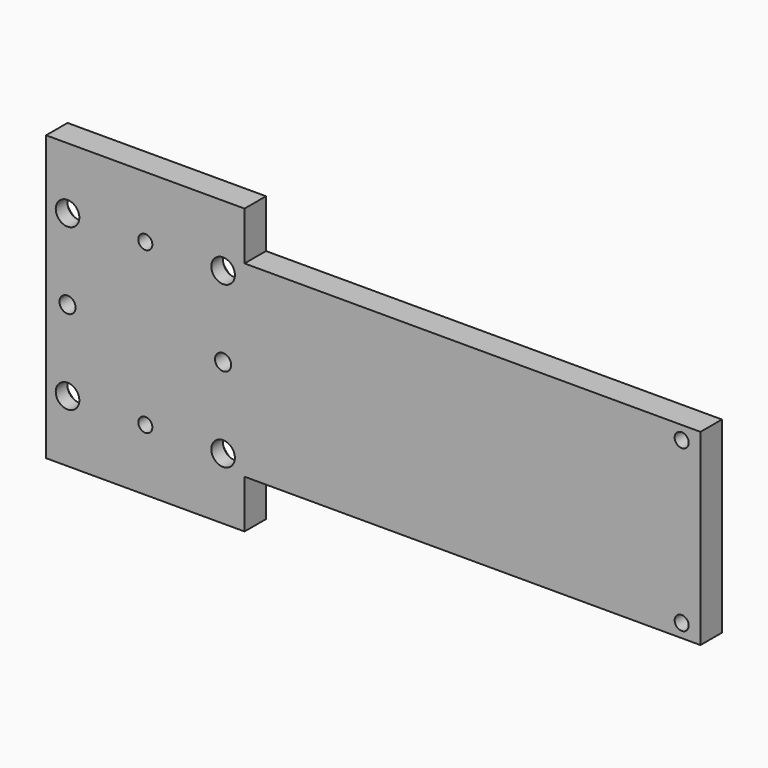
from build123d import *

# Parameters (mm, degrees)
F0_W           = 170
F0_H           = 35
F1_DEPTH       = 10
F2_D           = 6
F2_DEPTH       = 40
F2_TIP         = 1.8025818571
F3_D           = 8.8
F3_DEPTH       = 40
F3_CSINK_D     = 17.92
F3_CSINK_ANGLE = 90
F3_TIP         = 2.6437867237
F5_D           = 5.25
F5_DEPTH       = 40
F5_TIP         = 1.5772591249


with BuildPart() as f1:
    # F0 (on Front) → F1 (new body)
    with BuildSketch(Plane.XZ):
        Polygon((37, 35), (37, 53), (-37, 53), (-37, -53), (37, -53), (37, -35), (37, 0), align=None)
        with Locations((122, -17.5)):
            Rectangle(F0_W, F0_H)
        with Locations((122, 17.5)):
            Rectangle(F0_W, F0_H)
    extrude(amount=F1_DEPTH)

    # F2
    with Locations(Plane(origin=(0, 0, 0), x_dir=(1, 0, 0), z_dir=(0, 1, 0))):
        with Locations((-29, 0), (29, 0)):
            Hole(F2_D / 2, depth=F2_DEPTH)
            with Locations((0, 0, -(F2_DEPTH + F2_TIP / 2))):  # 118° drill point
                Cone(0, F2_D / 2, F2_TIP, mode=Mode.SUBTRACT)

    # F3
    with Locations(Plane(origin=(0, 0, 0), x_dir=(1, 0, 0), z_dir=(0, 1, 0))):
        with Locations((29, 30), (-29, 30), (29, -30), (-29, -30)):
            CounterSinkHole(F3_D / 2, F3_CSINK_D / 2, depth=F3_DEPTH, counter_sink_angle=F3_CSINK_ANGLE)
            with Locations((0, 0, -(F3_DEPTH + F3_TIP / 2))):  # 118° drill point
                Cone(0, F3_D / 2, F3_TIP, mode=Mode.SUBTRACT)

    # F5
    with Locations(Plane(origin=(0, 0, 0), x_dir=(1, 0, 0), z_dir=(0, 1, 0))):
        with Locations((0, 30), (0, -30), (200, 30), (200, -30)):
            Hole(F5_D / 2, depth=F5_DEPTH)
            with Locations((0, 0, -(F5_DEPTH + F5_TIP / 2))):  # 118° drill point
                Cone(0, F5_D / 2, F5_TIP, mode=Mode.SUBTRACT)


solid = f1.part
